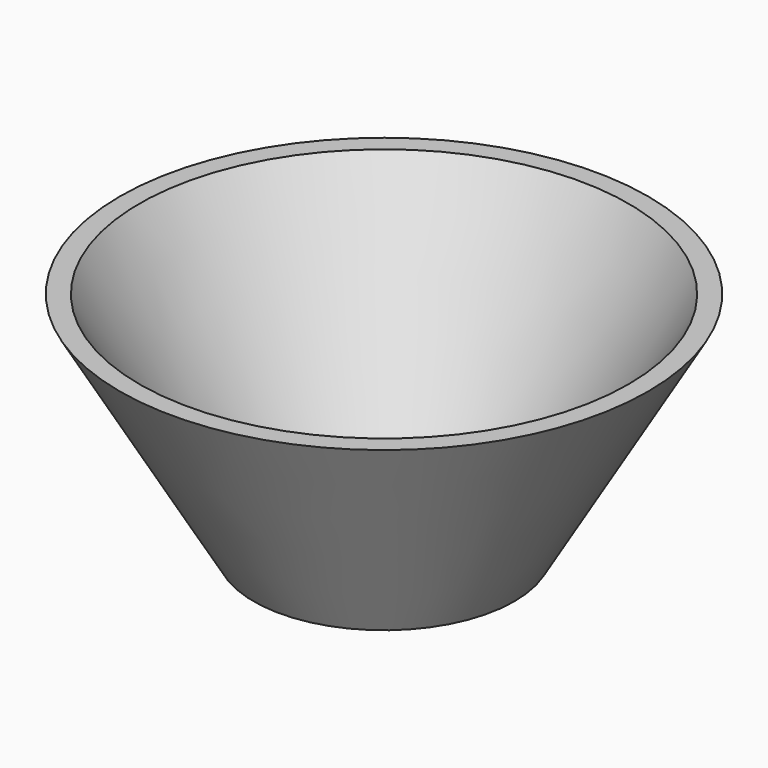
from build123d import *


with BuildPart() as part:
    # Sketch → Revolution (revolve)
    with BuildSketch(Plane.XZ):
        Polygon((4.2, 2.58865), (4.2, 0), (20, 0), (40.5, 35), (37.5, 35), (18.516209, 2.58865), align=None)
    revolve(axis=Axis((0, 0, 0), (0, 0, 1)))


solid = part.part
